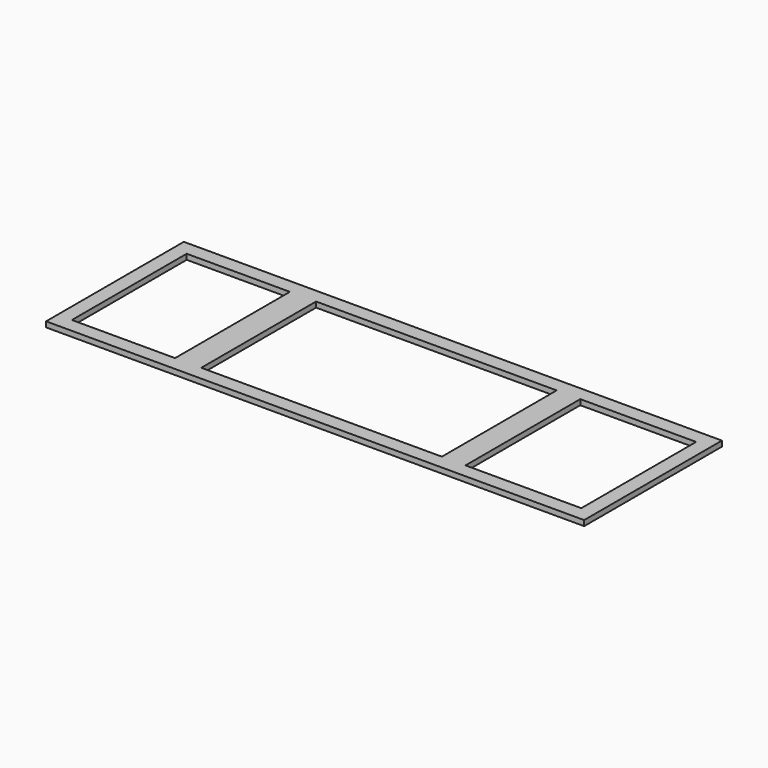
from build123d import *

# Parameters (mm, degrees)
F0_W     = 1905
F0_H     = 50.8
F1_DEPTH = 19.05
F2_W     = 50.8
F2_H     = 19.05
F3_DEPTH = 558.8
F4_W     = 50.8
F4_H     = 19.05
F5_DEPTH = 1854.2
F6_W     = 83.633751
F6_H     = 19.05
F6_W_2   = 92.737854
F7_DEPTH = 558.8


with BuildPart() as f1:
    # F0 (on Top) → F1 (new body)
    with BuildSketch(Plane.XY):
        with Locations((12.134612, 25.4)):
            Rectangle(F0_W, F0_H)
    extrude(amount=F1_DEPTH)

    # F2 (on face) → F3 (join)
    with BuildSketch(Plane.XZ):
        with Locations((-914.965388, 9.525)):
            Rectangle(F2_W, F2_H)
        with Locations((939.234612, 9.525)):
            Rectangle(F2_W, F2_H)
    extrude(amount=F3_DEPTH)

    # F4 (on face) → F5 (join)
    with BuildSketch(Plane.YZ.offset(-889.565388)):
        with Locations((-533.4, 9.525)):
            Rectangle(F4_W, F4_H)
    extrude(amount=F5_DEPTH)

    # F6 (on face) → F7 (join)
    with BuildSketch(Plane.XZ):
        with Locations((462.054446, 9.525)):
            Rectangle(F6_W, F6_H)
        with Locations((-477.944821, 9.525)):
            Rectangle(F6_W_2, F6_H)
    extrude(amount=F7_DEPTH)


solid = f1.part
